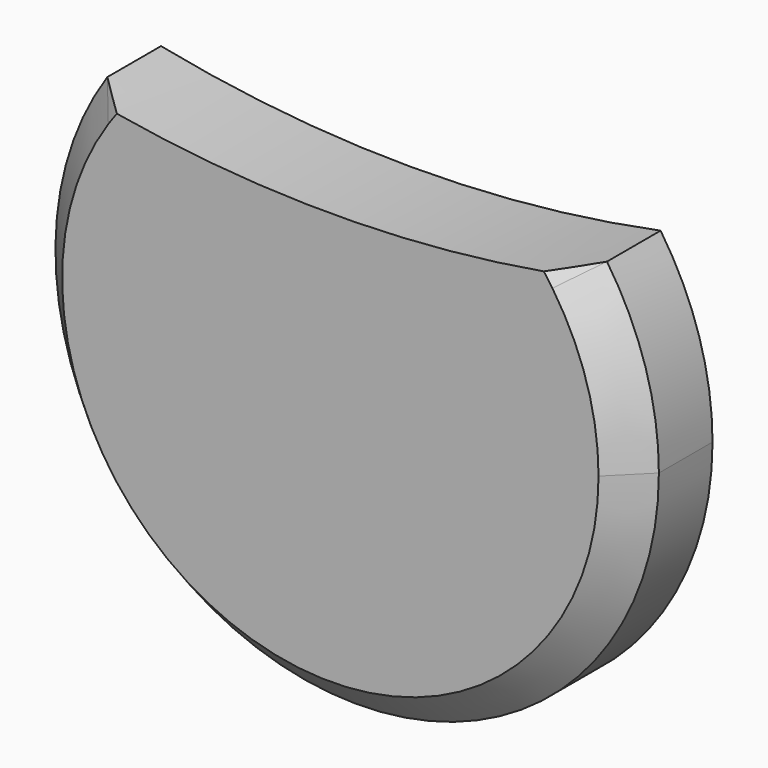
from build123d import *

# Parameters (mm, degrees)
F1_DEPTH = 3
F2_SIZE  = 1
F3_DEPTH = 3.001


with BuildPart() as f1:
    # F0 (on Front) → F1 (new body)
    with BuildSketch(Plane.XZ):
        with BuildLine():
            ThreePointArc((-7.451205, 5.047727), (-2.639996, -8.604093), (9, 0))
            ThreePointArc((9, 0), (8.604093, 2.639996), (7.451205, 5.047727))
            ThreePointArc((7.451205, 5.047727), (0, 4.3), (-7.451205, 5.047727))
        make_face()
        with BuildLine():
            ThreePointArc((-7.451205, 5.047727), (0, 4.3), (7.451205, 5.047727))
            ThreePointArc((7.451205, 5.047727), (0, 9), (-7.451205, 5.047727))
        make_face()
    extrude(amount=-F1_DEPTH)

    # F2
    f2_edges = [f1.edges().sort_by_distance(p)[0] for p in [
        (-9, 0, 0),
    ]]
    chamfer(f2_edges, length=F2_SIZE)

    # F0 (on Front) → F3 (cut, through all)
    with BuildSketch(Plane.XZ):
        with BuildLine():
            ThreePointArc((-7.451205, 5.047727), (0, 4.3), (7.451205, 5.047727))
            ThreePointArc((7.451205, 5.047727), (0, 9), (-7.451205, 5.047727))
        make_face()
    extrude(amount=-F3_DEPTH, mode=Mode.SUBTRACT)


solid = f1.part
